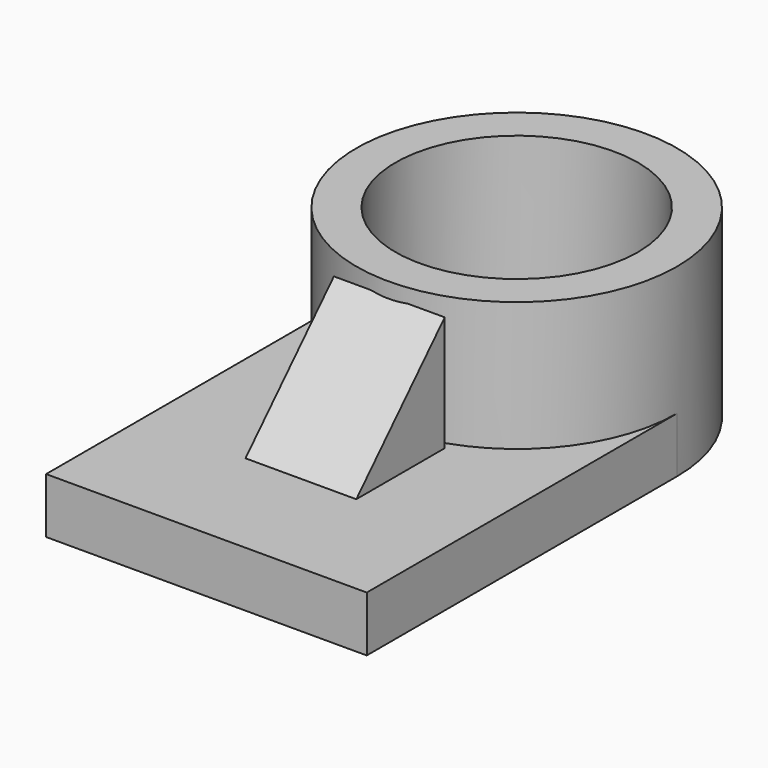
from build123d import *

# Parameters (mm, degrees)
F1_DEPTH      = 7.62
F0_R          = 16.67939
F2_DEPTH      = 25.4
F4_DEPTH      = 7.62
F4_DEPTH_BACK = 7.62


with BuildPart() as f1:
    # F0 (on Top) → F1 (new body)
    with BuildSketch(Plane.XY):
        with BuildLine():
            Line((22.05117, -16.240392), (22.05117, 37.099611))
            ThreePointArc((22.05117, 37.099611), (0, 15.048441), (-22.05117, 37.099611))
            Line((-22.05117, 37.099611), (-22.05117, -16.240392))
            Line((-22.05117, -16.240392), (22.05117, -16.240392))
        make_face()
    extrude(amount=F1_DEPTH)

    # F0 (on Top) → F2 (join)
    with BuildSketch(Plane.XY):
        with BuildLine():
            ThreePointArc((-22.05117, 37.099611), (0, 15.048441), (22.05117, 37.099611))
            ThreePointArc((22.05117, 37.099611), (0, 59.150781), (-22.05117, 37.099611))
        make_face()
        with Locations((0, 37.099611)):
            Circle(F0_R, mode=Mode.SUBTRACT)
    extrude(amount=F2_DEPTH)

    # F3 (on Right) → F4 (join, two sides)
    with BuildSketch(Plane.YZ) as f4_sk:
        Polygon((15.197432, 23.466621), (0, 7.62), (15.197432, 7.62), align=None)
    extrude(amount=F4_DEPTH)
    extrude(f4_sk.sketch, amount=-F4_DEPTH_BACK)


solid = f1.part
